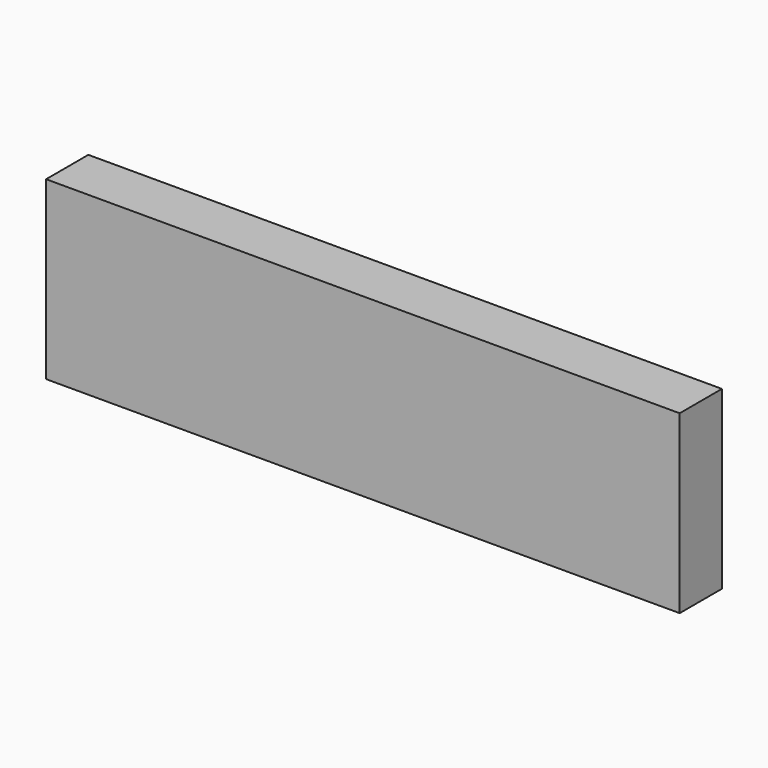
from build123d import *

# Parameters (mm, degrees)
SKETCH_W      = 180
SKETCH_H      = 15
EXTRUDE_DEPTH = 50


with BuildPart() as part:
    # Sketch → Extrude (new body)
    with BuildSketch(Plane.XY):
        Rectangle(SKETCH_W, SKETCH_H)
    extrude(amount=EXTRUDE_DEPTH)


solid = part.part
